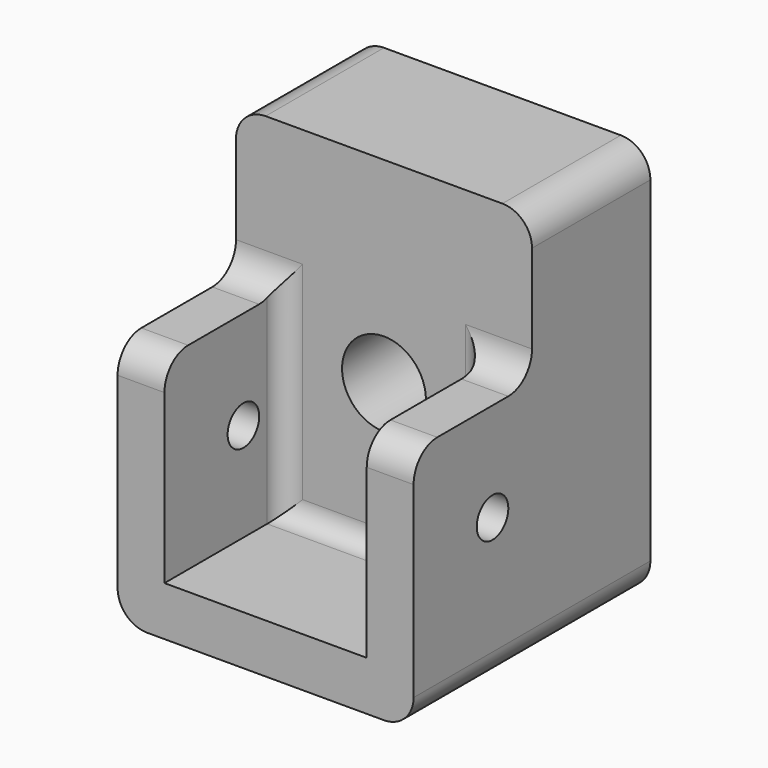
from build123d import *

# Parameters (mm, degrees)
F0_W     = 30
F0_H     = 40
F1_DEPTH = 30
F2_W     = 20.5
F2_H     = 30
F3_DEPTH = 15
F4_W     = 34.05
F4_H     = 15
F5_DEPTH = 15
F6_R     = 4.25
F7_DEPTH = 25
F8_R     = 2
F9_DEPTH = 30.001
F10_R    = 3
F11_R    = 2


with BuildPart() as f1:
    # F0 (on Front) → F1 (new body)
    with BuildSketch(Plane.XZ):
        Rectangle(F0_W, F0_H)
    extrude(amount=F1_DEPTH)

    # F2 (on face) → F3 (cut)
    with BuildSketch(Plane.XZ.offset(30)):
        Rectangle(F2_W, F2_H)
    extrude(amount=-F3_DEPTH, mode=Mode.SUBTRACT)

    # F4 (on face) → F5 (cut)
    with BuildSketch(Plane.XZ.offset(30)):
        with Locations((2.025, 12.5)):
            Rectangle(F4_W, F4_H)
    extrude(amount=-F5_DEPTH, mode=Mode.SUBTRACT)

    # F6 (on face) → F7 (cut)
    with BuildSketch(Plane.XZ.offset(15)):
        Circle(F6_R)
    extrude(amount=-F7_DEPTH, mode=Mode.SUBTRACT)

    # F8 (on face) → F9 (cut, through all)
    with BuildSketch(Plane.YZ.offset(15)):
        with Locations((-20, -5)):
            Circle(F8_R)
    extrude(amount=-F9_DEPTH, mode=Mode.SUBTRACT)

    # F10
    f10_edges = [f1.edges().sort_by_distance(p)[0] for p in [
        (15, -7.5, 20),
        (12.625, -30, 5),
        (-12.625, -30, 5),
        (12.625, -15, 5),
        (-12.625, -15, 5),
        (-15, -7.5, 20),
        (-15, -15, -20),
        (15, -15, -20),
    ]]
    fillet(f10_edges, radius=F10_R)

    # F11
    f11_edges = [f1.edges().sort_by_distance(p)[0] for p in [
        (-10.25, -15, -5),
        (0, -15, -15),
        (10.25, -15, -5),
    ]]
    fillet(f11_edges, radius=F11_R)


solid = f1.part
